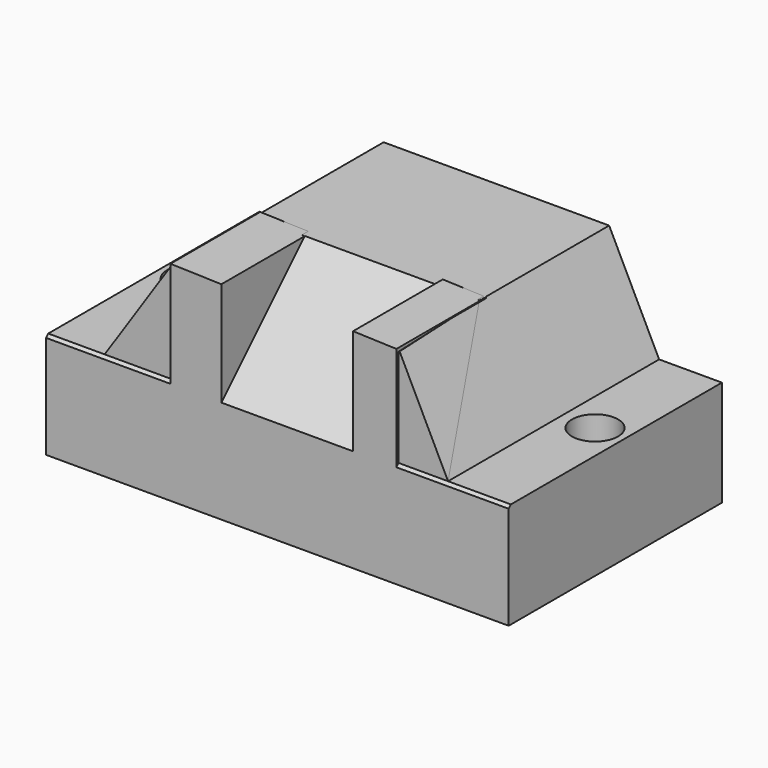
from build123d import *

# Parameters (mm, degrees)
F0_W      = 90.1204682887
F0_H      = 51.9253667444
F1_DEPTH  = 40.386
F3_DEPTH  = 91.948
F4_R      = 4.5004708043
F4_R_2    = 4.690333398
F5_DEPTH  = 57.404
F6_SIZE   = 20.32
F8_DEPTH  = 21.844
F10_DEPTH = 11.938
F12_DEPTH = 8.89


with BuildPart() as f1:
    # F0 (on Top) → F1 (new body)
    with BuildSketch(Plane.XY):
        with Locations((-1.6226675361, 4.8680035397)):
            Rectangle(F0_W, F0_H)
    extrude(amount=F1_DEPTH)

    # F2 (on face) → F3 (cut)
    with BuildSketch(Plane.XZ.offset(21.0946798325)):
        Polygon((43.4375666082, 40.386), (21.4691404253, 40.386), (31.2051493675, 20.5953978002), (43.4375666082, 20.5953978002), align=None)
        Polygon((-46.6829016805, 40.386), (-46.6829016805, 20.5953978002), (-35.6986895204, 20.5953978002), (-22.4677063525, 40.386), align=None)
    extrude(amount=-F3_DEPTH, mode=Mode.SUBTRACT)

    # F4 (on Top) → F5 (cut)
    with BuildSketch(Plane.XY):
        with Locations((37.6958213747, 7.1147740819)):
            Circle(F4_R)
        with Locations((-40.9411564469, 7.1147740819)):
            Circle(F4_R_2)
    extrude(amount=F5_DEPTH, mode=Mode.SUBTRACT)

    # F6
    f6_edges = [f1.edges().sort_by_distance(p)[0] for p in [
        (-0.499283, -21.09468, 40.386),
    ]]
    chamfer(f6_edges, length=F6_SIZE)

    # F7 (on face) → F8 (join)
    with BuildSketch(Plane.XZ.offset(21.0946798325)):
        Polygon((-12.5334421173, 40.3693430126), (-22.4436074495, 40.6608209014), (-22.4436074495, 0), (-12.5334421173, 0), align=None)
        Polygon((21.5691812336, 0), (21.5691812336, 40.3693430126), (13.1163960323, 40.6608209014), (13.1163960323, 0), align=None)
    extrude(amount=-F8_DEPTH)

    # F11 (on face) → F12 (join)
    with BuildSketch(Plane(origin=(33.2822455963, 0, 16.3732380384), x_dir=(0, 1, 0), z_dir=(0.8972974245, 0, 0.4414264741))):
        Polygon((-20.5652820323, 26.0929726064), (-20.5652820323, 4.7054183447), (-0.7746798325, 26.7612068264), align=None)
    extrude(amount=-F12_DEPTH)


with BuildPart() as f10:
    # F9 (on face) → F10 (new body)
    with BuildSketch(Plane(origin=(-34.1874023997, 0, 22.8559465315), x_dir=(0, -1, 0), z_dir=(-0.8313274378, 0, 0.5557829532))):
        Polygon((0.7746798325, 21.0868217152), (20.5652820323, -2.719203804), (20.5652820323, 20.7161735743), align=None)
    extrude(amount=-F10_DEPTH)


solid = Compound([f1.part, f10.part])
